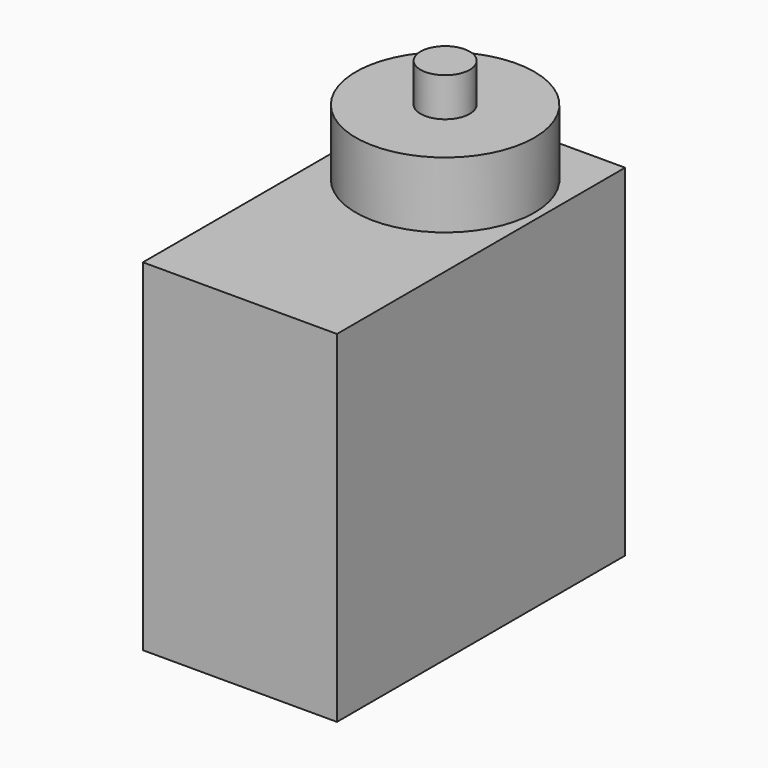
from build123d import *

# Parameters (mm, degrees)
F0_W     = 12.5
F0_H     = 23.2
F0_R     = 5.75
F0_R_2   = 1.5875
F1_DEPTH = 22
F2_DEPTH = 26.25
F3_DEPTH = 28.75


with BuildPart() as f1:
    # F0 (on Top) → F1 (new body)
    with BuildSketch(Plane.XY):
        with Locations((-54.248546, -8.758007)):
            Rectangle(F0_W, F0_H)
        with Locations((-54.248546, -3.834351)):
            Circle(F0_R, mode=Mode.SUBTRACT)
        with Locations((-54.248546, -3.834351)):
            Circle(F0_R)
        with Locations((-54.248546, -3.834351)):
            Circle(F0_R_2, mode=Mode.SUBTRACT)
        with Locations((-54.248546, -3.834351)):
            Circle(F0_R_2)
    extrude(amount=F1_DEPTH)

    # F0 (on Top) → F2 (join)
    with BuildSketch(Plane.XY):
        with Locations((-54.248546, -3.834351)):
            Circle(F0_R)
        with Locations((-54.248546, -3.834351)):
            Circle(F0_R_2, mode=Mode.SUBTRACT)
        with Locations((-54.248546, -3.834351)):
            Circle(F0_R_2)
    extrude(amount=F2_DEPTH)

    # F0 (on Top) → F3 (join)
    with BuildSketch(Plane.XY):
        with Locations((-54.248546, -3.834351)):
            Circle(F0_R_2)
    extrude(amount=F3_DEPTH)


solid = f1.part
